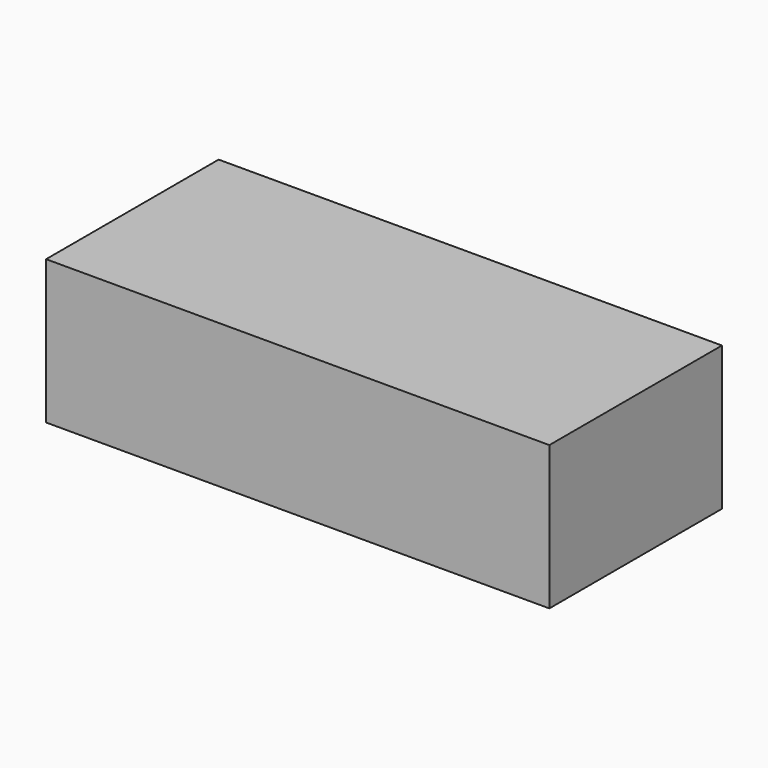
from build123d import *

# Parameters (mm, degrees)
F0_W     = 88.9
F0_H     = 38.1
F1_DEPTH = 25.4
F2_T     = -5.08


with BuildPart() as f1:
    # F0 (on Top) → F1 (new body)
    with BuildSketch(Plane.XY):
        with Locations((7.7469982922, 42.67200059)):
            Rectangle(F0_W, F0_H)
    extrude(amount=F1_DEPTH)

    # F2 (hollow: no face is removed)
    offset(amount=F2_T, mode=Mode.SUBTRACT)


solid = f1.part
